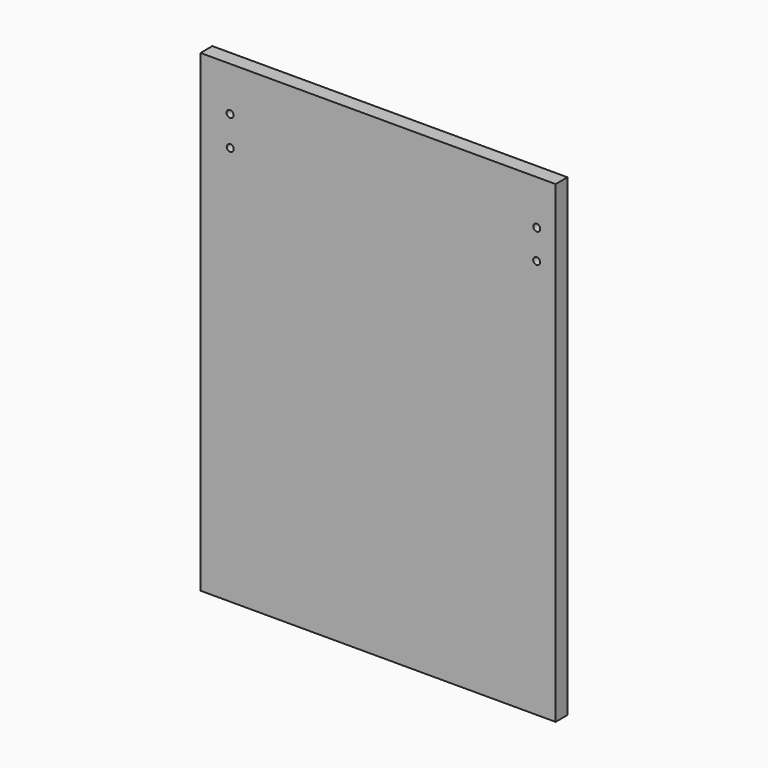
from build123d import *

# Parameters (mm, degrees)
F0_W     = 152.4
F0_H     = 203.2
F1_DEPTH = 6.35
F4_R     = 1.5
F3_R     = 1.5
F5_DEPTH = 159.766
F6_R     = 1.5
F7_DEPTH = 116.84


with BuildPart() as f1:
    # F0 (on Front) → F1 (new body)
    with BuildSketch(Plane.XZ):
        Rectangle(F0_W, F0_H)
    extrude(amount=F1_DEPTH)

    # F4 (on face) + F3 (on face) → F5 (cut)
    with BuildSketch(Plane.XZ.offset(6.35)):
        with Locations((-63.451082, 69.830269)):
            Circle(F4_R)
    with BuildSketch(Plane.XZ.offset(6.35)):
        with Locations((-63.504018, 82.645066)):
            Circle(F3_R)
    extrude(amount=-F5_DEPTH, mode=Mode.SUBTRACT)

    # F6 (on face) → F7 (cut)
    with BuildSketch(Plane.XZ.offset(6.35)):
        with Locations((68.093285, 82.504585)):
            Circle(F6_R)
        with Locations((68.055868, 69.857396)):
            Circle(F6_R)
    extrude(amount=-F7_DEPTH, mode=Mode.SUBTRACT)


solid = f1.part
